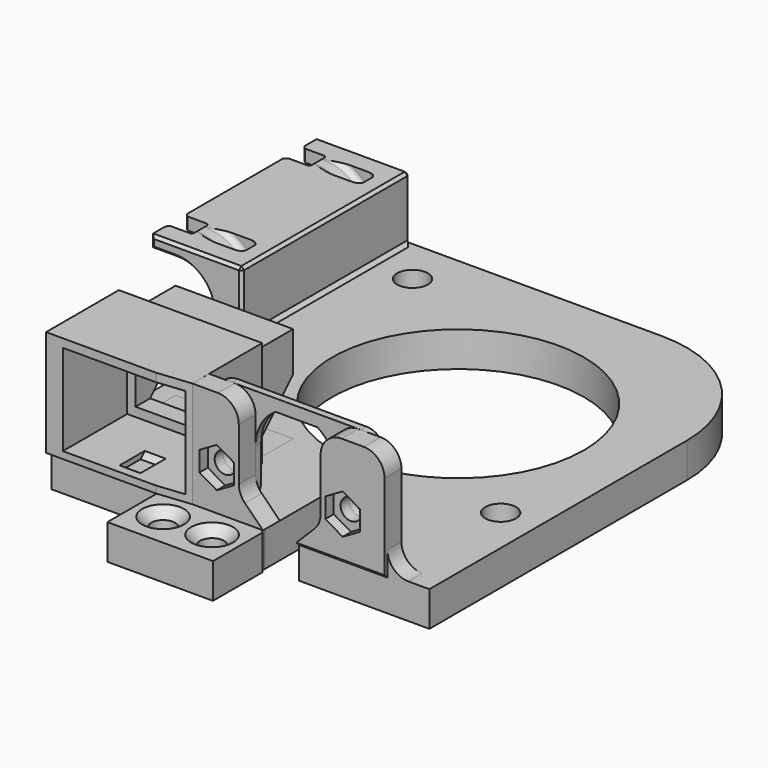
from build123d import *

# Parameters (mm, degrees)
SKETCH013_R          = 1.5
PAD003_DEPTH         = 1
SKETCH_R             = 18
SKETCH_R_2           = 2.2
SKETCH_R_3           = 1.7
PAD_DEPTH            = 5
POCKET_DEPTH         = 2.2
PAD001_DEPTH         = 15.2
POCKET001_DEPTH      = 11.001
POCKET001_DEPTH_BACK = 43.001
SKETCH008_W          = 17.2
SKETCH008_H          = 13
POCKET002_DEPTH      = 11.5
SKETCH009_W          = 14.8
SKETCH009_H          = 10.5
POCKET003_DEPTH      = 28.701
SKETCH010_R          = 1.5
PAD002_DEPTH         = 3
POCKET004_DEPTH      = 20.201
POCKET005_DEPTH      = 1.5
POCKET008_DEPTH      = 1.5
FILLET_R             = 3
CHAMFER_SIZE         = 0.498
CHAMFER001_SIZE      = 1.3
SKETCH019_R          = 3.8
PAD005_DEPTH         = 0.2
PAD004_DEPTH         = 30
POCKET006_DEPTH      = 7.001
POCKET007_DEPTH      = 7.001
POCKET007_DEPTH_BACK = 13.201
LINEARPATTERN_COUNT  = 2
LINEARPATTERN_PITCH  = 21
CHAMFER002_SIZE      = 0.4
CHAMFER003_SIZE      = 0.5


with BuildPart() as distanceholder1mm:
    # Sketch013 → Pad003 (new body)
    with BuildSketch(Plane.XZ.offset(12.5)):
        with BuildLine():
            Line((23.8, 20.2), (42.2, 20.2))
            ThreePointArc((45, 17.4), (44.179899, 19.379899), (42.2, 20.2))
            Line((45, 17.4), (45, 8.3))
            ThreePointArc((42.2, 5.5), (44.179899, 6.320101), (45, 8.3))
            Line((42.2, 5.5), (41.65, 5.5))
            ThreePointArc((38.85, 8.3), (39.670101, 6.320101), (41.65, 5.5))
            Line((38.85, 13.3), (38.85, 8.3))
            ThreePointArc((38.85, 13.3), (38.09078, 16.264899), (36, 18.5))
            Line((30, 18.5), (36, 18.5))
            ThreePointArc((30, 18.5), (27.90922, 16.264899), (27.15, 13.300001))
            Line((27.15, 8.3), (27.15, 13.300001))
            ThreePointArc((24.35, 5.5), (26.329899, 6.320101), (27.15, 8.3))
            Line((24.35, 5.5), (23.8, 5.5))
            ThreePointArc((21, 8.3), (21.820101, 6.320101), (23.8, 5.5))
            Line((21, 8.3), (21, 17.4))
            ThreePointArc((23.8, 20.2), (21.820101, 19.379899), (21, 17.4))
        make_face()
        with Locations((24, 10.75)):
            Circle(SKETCH013_R, mode=Mode.SUBTRACT)
        with Locations((42, 10.75)):
            Circle(SKETCH013_R, mode=Mode.SUBTRACT)
    extrude(amount=PAD003_DEPTH)


with BuildPart() as distanceholder1mm_1:
    # Body001 placement: moved
    add(distanceholder1mm.part.moved(Location((0, 16, 0))))


with BuildPart() as obj1:
    # Sketch → Pad (new body)
    with BuildSketch(Plane.XY):
        with BuildLine():
            Line((0, 0), (15.135099, 0))
            ThreePointArc((15.8, -0.664901), (15.941421, 0.141421), (15.135099, 0))
            Line((15.8, -0.664901), (15.8, -9.8))
            Line((15.8, -9.8), (30.9, -9.8))
            Line((30.9, -9.8), (30.9, -0.664901))
            ThreePointArc((31.564901, 0), (30.758579, 0.141421), (30.9, -0.664901))
            Line((31.564901, 0), (54, 0))
            Line((54, 0), (54, 46))
            ThreePointArc((54, 46), (48.727922, 58.727922), (36, 64))
            Line((36, 64), (0, 64))
            Line((0, 64), (0, 0))
        make_face()
        with Locations((28.5, 37)):
            Circle(SKETCH_R, mode=Mode.SUBTRACT)
        with Locations((5.667, 57.4)):
            Circle(SKETCH_R_2, mode=Mode.SUBTRACT)
        with Locations((48.667, 19.4)):
            Circle(SKETCH_R_2, mode=Mode.SUBTRACT)
        with Locations((19.85, -4.9)):
            Circle(SKETCH_R_3, mode=Mode.SUBTRACT)
        with Locations((26.85, -4.9)):
            Circle(SKETCH_R_3, mode=Mode.SUBTRACT)
    extrude(amount=PAD_DEPTH)

    # Sketch001 → Pocket (cut)
    with BuildSketch(Plane.XY):
        Polygon((5.667, 54.051368), (8.567, 55.725684), (8.567, 59.074316), (5.667, 60.748632), (2.767, 59.074316), (2.767, 55.725684), align=None)
        Polygon((48.667, 16.051368), (51.567, 17.725684), (51.567, 21.074316), (48.667, 22.748632), (45.767, 21.074316), (45.767, 17.725684), align=None)
    extrude(amount=POCKET_DEPTH, mode=Mode.SUBTRACT)

    # Sketch002 → Pad001 (join)
    with BuildSketch(Plane.XY.offset(5)):
        Polygon((0, 12), (2.6, 12), (2.6, 18.9), (19.4, 18.9), (19.4, 12), (20.5, 12), (20.5, -0.5), (15.7, -1), (0, -1), align=None)
    extrude(amount=PAD001_DEPTH)

    # Sketch007 → Pocket001 (cut, two sides)
    with BuildSketch(Plane.YZ.offset(11)) as pocket001_sk:
        Polygon((12, 21.001), (18.92, 21.001), (18.92, 5.001), (12, 5.001), (12, 6.201), (18.9, 13.101), (18.9, 18.801), (12, 18.801), align=None)
    extrude(amount=-POCKET001_DEPTH, mode=Mode.SUBTRACT)
    extrude(pocket001_sk.sketch, amount=POCKET001_DEPTH_BACK, mode=Mode.SUBTRACT)

    # Sketch008 → Pocket002 (cut)
    with BuildSketch(Plane.XZ.offset(1)):
        with Locations((11, 12.5)):
            Rectangle(SKETCH008_W, SKETCH008_H)
    extrude(amount=-POCKET002_DEPTH, mode=Mode.SUBTRACT)

    # Sketch009 → Pocket003 (cut, through all)
    with BuildSketch(Plane.XZ.offset(-18.9)):
        with Locations((11, 12.55)):
            Rectangle(SKETCH009_W, SKETCH009_H)
    extrude(amount=POCKET003_DEPTH, mode=Mode.SUBTRACT)

    # Sketch010 → Pad002 (join)
    with BuildSketch(Plane.XZ.offset(0.5)):
        with BuildLine():
            Line((24.149999, 20.198), (20.5, 20.198))
            Line((20.5, 20.198), (20.5, 4.998))
            Line((20.5, 4.998), (48, 4.998))
            Line((48, 4.998), (48, 17.198))
            ThreePointArc((48, 17.198), (47.12132, 19.31932), (45, 20.198))
            Line((45, 20.198), (41.85, 20.198))
            ThreePointArc((41.85, 20.198), (39.72868, 19.31932), (38.85, 17.198))
            Line((38.85, 17.198), (38.85, 8.468272))
            Line((38.85, 8.468272), (35.381728, 5))
            Line((35.381728, 5), (30.618272, 5))
            Line((30.618272, 5), (27.15, 8.468272))
            Line((27.15, 8.468272), (27.15, 17.198))
            ThreePointArc((27.15, 17.198), (26.27132, 19.319321), (24.149999, 20.198))
        make_face()
        with Locations((24, 10.75)):
            Circle(SKETCH010_R, mode=Mode.SUBTRACT)
        with Locations((42, 10.75)):
            Circle(SKETCH010_R, mode=Mode.SUBTRACT)
    extrude(amount=-PAD002_DEPTH)

    # Sketch011 → Pocket004 (cut, through all)
    with BuildSketch(Plane.XY):
        with BuildLine():
            Line((35.381728, 10), (35.381728, -1))
            Line((35.381728, -1), (31.118272, -1))
            ThreePointArc((30.618272, -0.5), (30.764719, -0.853553), (31.118272, -1))
            Line((30.618272, -0.5), (30.618272, 10))
            ThreePointArc((35.381728, 10), (33, 12.381728), (30.618272, 10))
        make_face()
    extrude(amount=POCKET004_DEPTH, mode=Mode.SUBTRACT)

    # Sketch012 → Pocket005 (cut)
    with BuildSketch(Plane.XZ.offset(0.5)):
        Polygon((24, 13.607884), (21.525, 12.178942), (21.525, 9.321058), (24, 7.892116), (26.475, 9.321058), (26.475, 12.178942), align=None)
        Polygon((42, 13.607884), (39.525, 12.178942), (39.525, 9.321058), (42, 7.892116), (44.475, 9.321058), (44.475, 12.178942), align=None)
    extrude(amount=-POCKET005_DEPTH, mode=Mode.SUBTRACT)

    # Sketch020 → Pocket008 (cut, symmetric)
    with BuildSketch(Plane.YZ.offset(11)):
        Polygon((0, 18.75), (1, 19.75), (4, 19.75), (5, 18.75), (5, 6.25), (4, 5.25), (1, 5.25), (0, 6.25), align=None)
    extrude(amount=POCKET008_DEPTH, both=True, mode=Mode.SUBTRACT)

    # Fillet
    fillet_edges = [obj1.edges().sort_by_distance(p)[0] for p in [
        (38.85, 1, 8.468272),
        (27.15, 1, 8.468272),
        (48, 1.25, 5),
    ]]
    fillet(fillet_edges, radius=FILLET_R)

    # Chamfer
    chamfer_edges = [obj1.edges().sort_by_distance(p)[0] for p in [
        (41.690864, 0, 4.998),
    ]]
    chamfer(chamfer_edges, length=CHAMFER_SIZE)

    # Chamfer001
    chamfer001_edges = [obj1.edges().sort_by_distance(p)[0] for p in [
        (18.15, -4.9, 5),
        (25.15, -4.9, 5),
    ]]
    chamfer(chamfer001_edges, length=CHAMFER001_SIZE)

    # Sketch019 → Pad005 (join)
    with BuildSketch(Plane.XY.offset(2.2)):
        with Locations((5.667, 57.4)):
            Circle(SKETCH019_R)
        with Locations((48.667, 19.4)):
            Circle(SKETCH019_R)
    extrude(amount=PAD005_DEPTH)

    # Sketch014 → Pad004 (new body)
    with BuildSketch(Plane.XZ.offset(-34)):
        with BuildLine():
            ThreePointArc((-9.5, 1.75), (-4.25, 7), (-9.5, 12.25))
            Line((-9.5, 12.25), (-13, 12.25))
            Line((-13, 12.25), (-13, 14))
            Line((-13, 14), (0, 14))
            Line((0, 14), (0, 0))
            Line((0, 0), (-13, 0))
            Line((-13, 0), (-13, 1.75))
            Line((-13, 1.75), (-9.5, 1.75))
        make_face()
    extrude(amount=-PAD004_DEPTH)

    # Sketch015 → Pocket006 (cut, through all)
    with BuildSketch(Plane.XY.offset(7)):
        with BuildLine():
            Line((-13, 54), (-4.65, 54))
            ThreePointArc((-4.25, 53.6), (-4.367157, 53.882843), (-4.65, 54))
            Line((-4.25, 53.6), (-4.25, 51.4))
            ThreePointArc((-4.65, 51), (-4.367157, 51.117157), (-4.25, 51.4))
            Line((-4.65, 51), (-13, 51))
            Line((-13, 51), (-13, 54))
        make_face()
        with BuildLine():
            Line((-13, 47), (-4.65, 47))
            ThreePointArc((-4.25, 46.6), (-4.367157, 46.882843), (-4.65, 47))
            Line((-4.25, 46.6), (-4.25, 44.4))
            ThreePointArc((-4.65, 44), (-4.367157, 44.117157), (-4.25, 44.4))
            Line((-4.65, 44), (-13, 44))
            Line((-13, 44), (-13, 47))
        make_face()
    extrude(amount=-POCKET006_DEPTH, mode=Mode.SUBTRACT)

    # Sketch016 → Pocket007 (cut, two sides)
    with BuildSketch(Plane.XY.offset(7)) as pocket007_sk:
        with BuildLine():
            Line((-13, 61), (-9.9, 61))
            ThreePointArc((-9.5, 60.6), (-9.617157, 60.882843), (-9.9, 61))
            Line((-9.5, 60.6), (-9.5, 58.4))
            ThreePointArc((-9.9, 58), (-9.617157, 58.117157), (-9.5, 58.4))
            Line((-9.9, 58), (-13, 58))
            Line((-13, 58), (-13, 61))
        make_face()
        with BuildLine():
            Line((-13, 40), (-9.9, 40))
            ThreePointArc((-9.5, 39.6), (-9.617157, 39.882843), (-9.9, 40))
            Line((-9.5, 39.6), (-9.5, 37.4))
            ThreePointArc((-9.9, 37), (-9.617157, 37.117157), (-9.5, 37.4))
            Line((-9.9, 37), (-13, 37))
            Line((-13, 37), (-13, 40))
        make_face()
    extrude(amount=-POCKET007_DEPTH, mode=Mode.SUBTRACT)
    extrude(pocket007_sk.sketch, amount=POCKET007_DEPTH_BACK, mode=Mode.SUBTRACT)

    # SubtractivePipe: sweep along a path in Sketch018
    with BuildLine(Plane.XZ.offset(-38.5)) as subtractivepipe_path:
        ThreePointArc((-9.5, -1.5), (-5.812567, -0.658514), (-2.855234, 1.699332))
        ThreePointArc((-2.855234, 1.699332), (-1.99715, 3.251502), (-1.7, 5))
        Line((-1.7, 5), (-1.7, 9))
        ThreePointArc((-1.7, 9), (-1.99715, 10.748498), (-2.855234, 12.300668))
        ThreePointArc((-2.855234, 12.300668), (-5.812567, 14.658514), (-9.5, 15.5))
    # Sketch017 → SubtractivePipe (sweep, cut)
    with BuildSketch(Plane.YZ.offset(-9.5)):
        with BuildLine():
            Line((37.8, 0), (39.2, 0))
            ThreePointArc((40, -0.8), (39.765685, -0.234315), (39.2, 0))
            Line((40, -0.8), (40, -2.2))
            ThreePointArc((39.2, -3), (39.765685, -2.765685), (40, -2.2))
            Line((39.2, -3), (37.8, -3))
            ThreePointArc((37, -2.2), (37.234315, -2.765685), (37.8, -3))
            Line((37, -2.2), (37, -0.8))
            ThreePointArc((37.8, 0), (37.234315, -0.234315), (37, -0.8))
        make_face()
    subtractivepipe = sweep(path=subtractivepipe_path.line, is_frenet=True, mode=Mode.SUBTRACT)

    # LinearPattern: SubtractivePipe ×2
    with Locations(*[(0, i * LINEARPATTERN_PITCH, 0) for i in range(1, LINEARPATTERN_COUNT)]):
        add(subtractivepipe, mode=Mode.SUBTRACT)

    # Chamfer002
    chamfer002_edges = [obj1.edges().sort_by_distance(p)[0] for p in [
        (0, 34, 9.5),
        (0, 49, 14),
        (-6.5, 34, 14),
        (-6.5, 64, 14),
        (0, 64, 9.5),
        (-13, 37, 13.125),
        (-13, 40, 13.125),
        (-13, 58, 13.125),
        (-13, 61, 13.125),
        (-13, 64, 13.125),
        (-13, 34, 13.125),
        (-13, 34, 0.875),
        (-13, 37, 0.875),
        (-13, 40, 0.875),
        (-13, 44, 0.875),
        (-13, 47, 0.875),
        (-13, 51, 0.875),
        (-13, 54, 0.875),
        (-13, 58, 0.875),
        (-13, 61, 0.875),
        (-13, 64, 0.875),
        (-4.25, 64, 7),
        (-4.25, 34, 7),
    ]]
    chamfer(chamfer002_edges, length=CHAMFER002_SIZE)

    # Chamfer003
    chamfer003_edges = [obj1.edges().sort_by_distance(p)[0] for p in [
        (0, 49, 5),
    ]]
    chamfer(chamfer003_edges, length=CHAMFER003_SIZE)


solid = Compound([distanceholder1mm_1.part, obj1.part])
